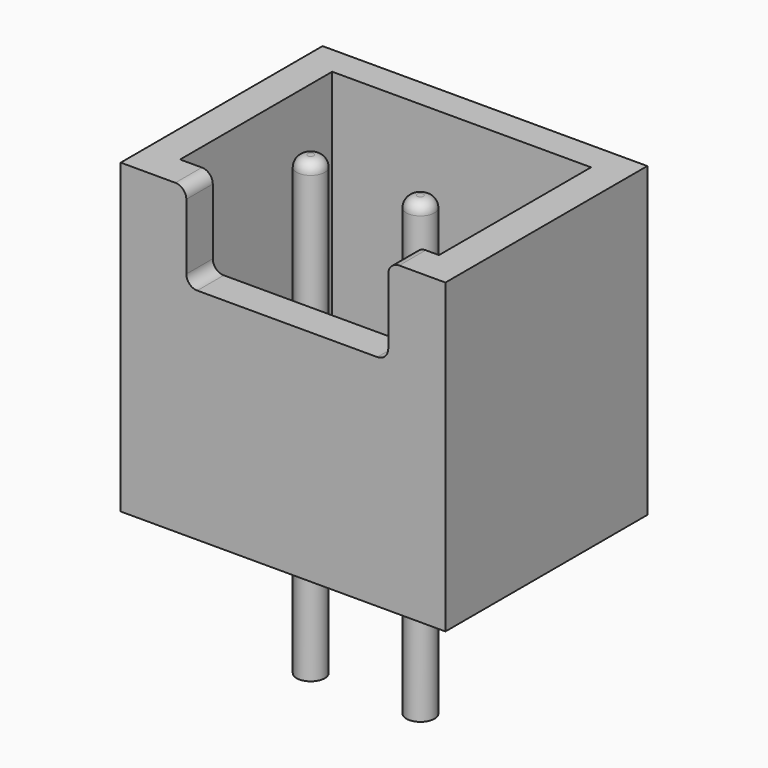
from build123d import *

# Parameters (mm, degrees)
SKETCH_W        = 7.4
SKETCH_H        = 5.75
PAD_DEPTH       = 7
SKETCH001_W     = 5.898798
SKETCH001_H     = 4.332235
POCKET_DEPTH    = 6
SKETCH002_W     = 4.602266
SKETCH002_H     = 1.739882
POCKET001_DEPTH = 2
SKETCH003_R     = 0.32
PAD001_DEPTH    = 10.4
FILLET_R        = 0.25
FILLET001_R     = 0.25


with BuildPart() as part:
    # Sketch → Pad (new body)
    with BuildSketch(Plane.XY):
        with Locations((0, 0.525)):
            Rectangle(SKETCH_W, SKETCH_H)
    extrude(amount=PAD_DEPTH)

    # Sketch001 (on Face6 of Pad) → Pocket (cut)
    with BuildSketch(Plane.XY.offset(7)):
        with Locations((0, 0.56974)):
            Rectangle(SKETCH001_W, SKETCH001_H)
    extrude(amount=-POCKET_DEPTH, mode=Mode.SUBTRACT)

    # Sketch002 (on Face5 of Pocket) → Pocket001 (cut)
    with BuildSketch(Plane.XY.offset(7)):
        with Locations((0.096319, -1.961715)):
            Rectangle(SKETCH002_W, SKETCH002_H)
    extrude(amount=-POCKET001_DEPTH, mode=Mode.SUBTRACT)

    # Sketch003 (on Face5 of Pocket001) → Pad001 (join)
    with BuildSketch(Plane.XY.offset(7)):
        with Locations((-1.25, 0)):
            Circle(SKETCH003_R)
        with Locations((1.25, 0)):
            Circle(SKETCH003_R)
    extrude(amount=-PAD001_DEPTH)

    # Fillet
    fillet_edges = [part.edges().sort_by_distance(p)[0] for p in [
        (-2.204814, -1.973189, 7),
        (2.397452, -1.973189, 7),
        (-2.204814, -1.973189, 5),
        (2.397452, -1.973189, 5),
    ]]
    fillet(fillet_edges, radius=FILLET_R)

    # Fillet001
    fillet001_edges = [part.edges().sort_by_distance(p)[0] for p in [
        (-1.57, 0, 7),
        (0.93, 0, 7),
    ]]
    fillet(fillet001_edges, radius=FILLET001_R)


solid = part.part
